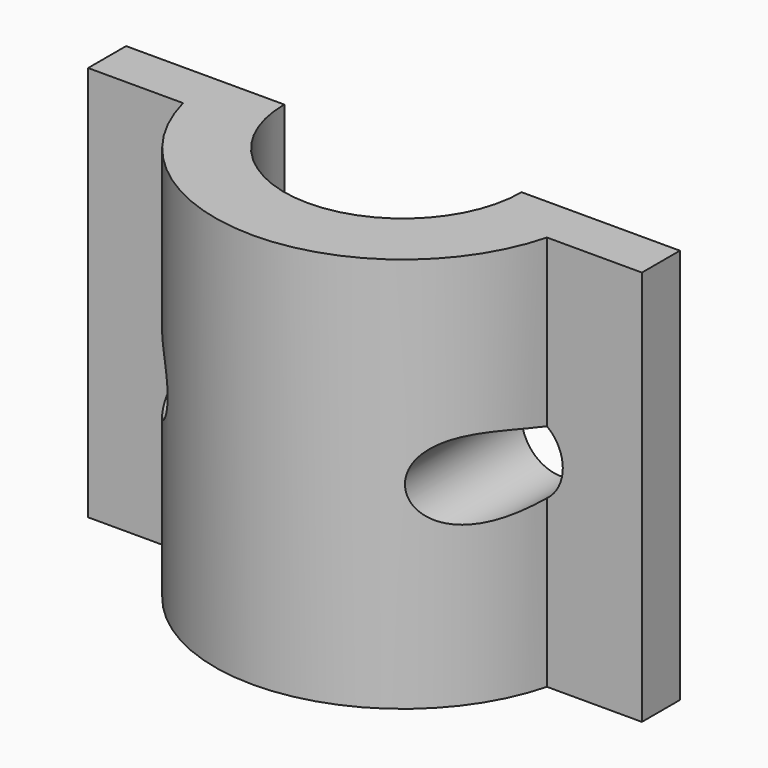
from build123d import *

# Parameters (mm, degrees)
F1_DEPTH = 25
F3_D     = 5


with BuildPart() as f1:
    # F0 (on Top) → F1 (new body)
    with BuildSketch(Plane.XY):
        with BuildLine():
            Line((-7.5, 0), (-17.5, 0))
            Line((-17.5, 0), (-17.5, -3))
            Line((-17.5, -3), (-11.5, -3))
            ThreePointArc((-11.5, -3), (0, -11.884864), (11.5, -3))
            Line((11.5, -3), (17.5, -3))
            Line((17.5, -3), (17.5, 0))
            Line((17.5, 0), (7.5, 0))
            ThreePointArc((7.5, 0), (0, -7.5), (-7.5, 0))
        make_face()
    extrude(amount=F1_DEPTH)

    # F3 (through all)
    with Locations(Plane(origin=(0, 0, 0), x_dir=(-1, 0, 0), z_dir=(0, 1, 0))):
        with Locations((-10, 12.5), (10, 12.5)):
            Hole(F3_D / 2)


solid = f1.part
